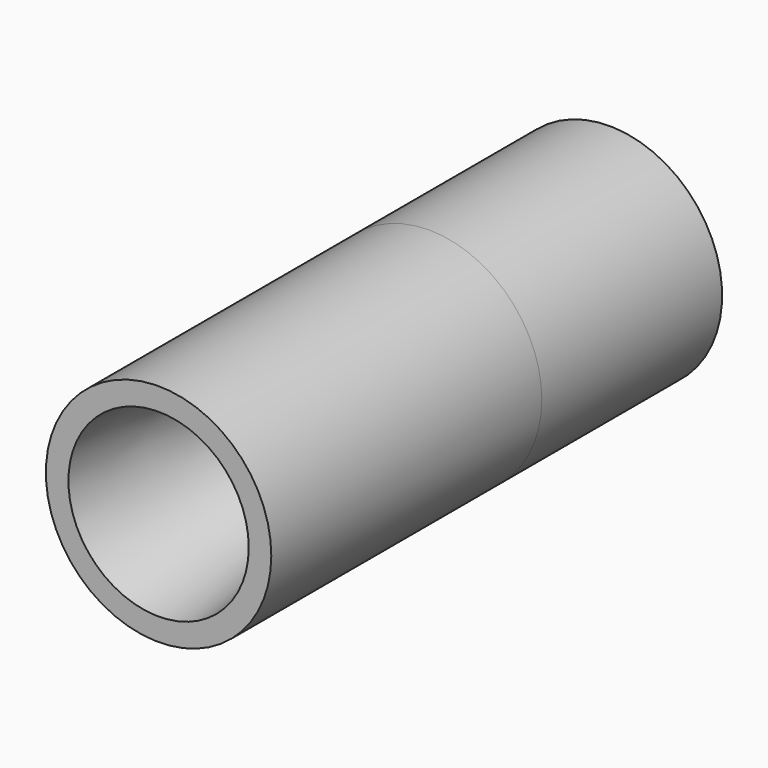
from build123d import *

# Parameters (mm, degrees)
F0_R     = 6.35
F5_DEPTH = 19.05
F1_R     = 5.08
F4_R     = 2.8448
F7_R     = 6.35
F7_R_2   = 4.445
F8_DEPTH = 12.7


with BuildPart() as f5:
    # F0 (on Front) → F5 (new body)
    with BuildSketch(Plane.XZ):
        Circle(F0_R)
    extrude(amount=-F5_DEPTH)

    # F1 (on face) → F6 section 0
    with BuildSketch(Plane.XZ):
        Circle(F1_R)
    # F4 (on line) → F6 section 1
    with BuildSketch(Plane(origin=(0, 19.05, 0), x_dir=(-1, 0, 0), z_dir=(0, 1, 0))):
        Circle(F4_R)
    loft(mode=Mode.SUBTRACT)

    # F7 (on face) → F8 (join)
    with BuildSketch(Plane(origin=(0, 19.05, 0), x_dir=(-1, 0, 0), z_dir=(0, 1, 0))):
        Circle(F7_R)
        Circle(F7_R_2, mode=Mode.SUBTRACT)
    extrude(amount=F8_DEPTH)


solid = f5.part
